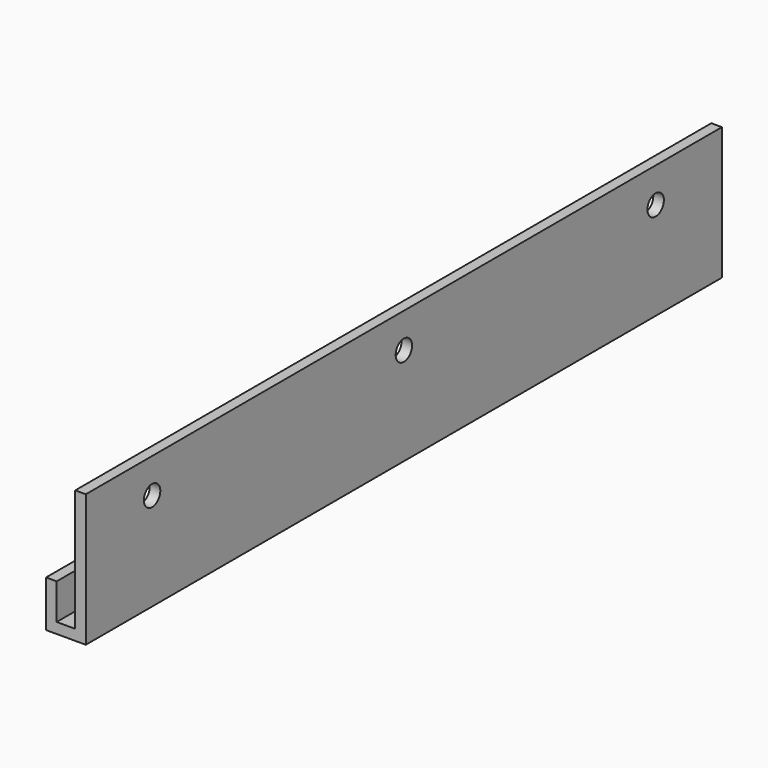
from build123d import *

# Parameters (mm, degrees)
F1_DEPTH = 76.2
F2_R     = 1.9685
F3_DEPTH = 2.033


with BuildPart() as f1:
    # F0 (on Front) → F1 (new body, symmetric)
    with BuildSketch(Plane.XZ):
        Polygon((0, 0), (0, 25.4), (-2.032, 25.4), (-2.032, 2.032), (-5.588, 2.032), (-5.588, 8.89), (-7.62, 8.89), (-7.62, 0), align=None)
    extrude(amount=F1_DEPTH, both=True)

    # F2 (on face) → F3 (cut, through all)
    with BuildSketch(Plane(origin=(-2.032, 0, 0), x_dir=(0, -1, 0), z_dir=(-1, 0, 0))):
        with Locations((-60.325, 18.7325)):
            Circle(F2_R)
        with Locations((0, 18.7325)):
            Circle(F2_R)
        with Locations((60.325, 18.7325)):
            Circle(F2_R)
    extrude(amount=-F3_DEPTH, mode=Mode.SUBTRACT)


solid = f1.part
